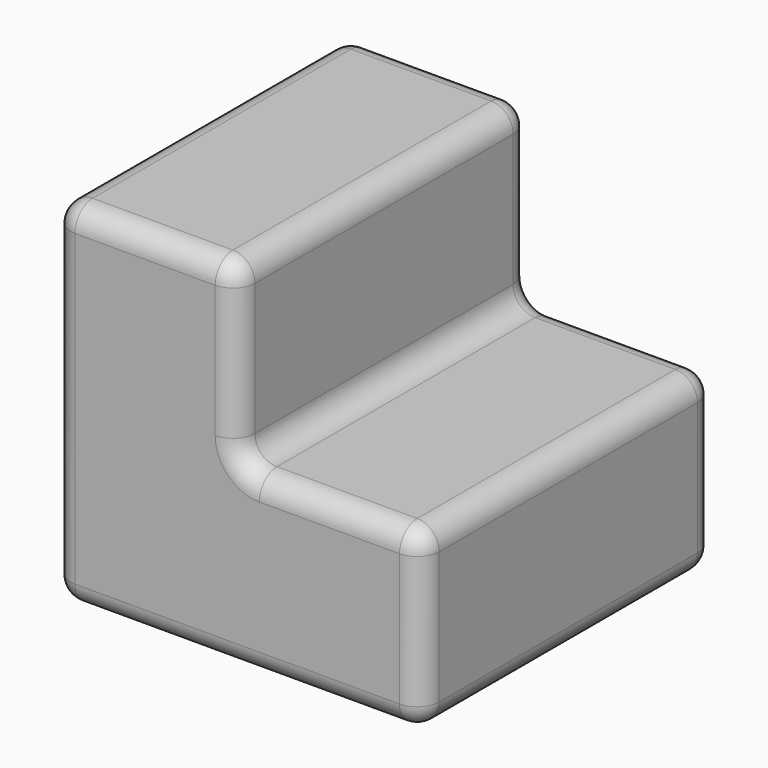
from build123d import *

# Parameters (mm, degrees)
F0_W     = 83.6216490716
F0_H     = 83.1985995173
F1_DEPTH = 40
F2_W     = 41.8108245358
F2_H     = 83.1985995173
F3_DEPTH = 40
F4_R     = 5


with BuildPart() as f1:
    # F0 (on Top) → F1 (new body)
    with BuildSketch(Plane.XY):
        with Locations((-17.3164242879, -4.335001111)):
            Rectangle(F0_W, F0_H)
    extrude(amount=F1_DEPTH)

    # F2 (on face) → F3 (join)
    with BuildSketch(Plane.XY.offset(40)):
        with Locations((-38.2218365557, -4.335001111)):
            Rectangle(F2_W, F2_H)
    extrude(amount=F3_DEPTH)

    # F4
    f4_edges = [f1.edges().sort_by_distance(p)[0] for p in [
        (-17.316424, -4.335001, 40),
        (-59.127249, 37.264299, 40),
        (-59.127249, -4.335001, 80),
        (-59.127249, -45.934301, 40),
        (-59.127249, -4.335001, 0),
        (3.588988, 37.264299, 40),
        (3.588988, -45.934301, 40),
        (24.4944, 37.264299, 20),
        (-17.316424, 37.264299, 60),
        (-38.221837, 37.264299, 80),
        (-17.316424, 37.264299, 0),
        (-17.316424, -45.934301, 60),
        (-17.316424, -45.934301, 0),
        (24.4944, -4.335001, 0),
        (24.4944, -4.335001, 40),
        (-17.316424, -4.335001, 80),
        (-38.221837, -45.934301, 80),
        (24.4944, -45.934301, 20),
    ]]
    fillet(f4_edges, radius=F4_R)


solid = f1.part
